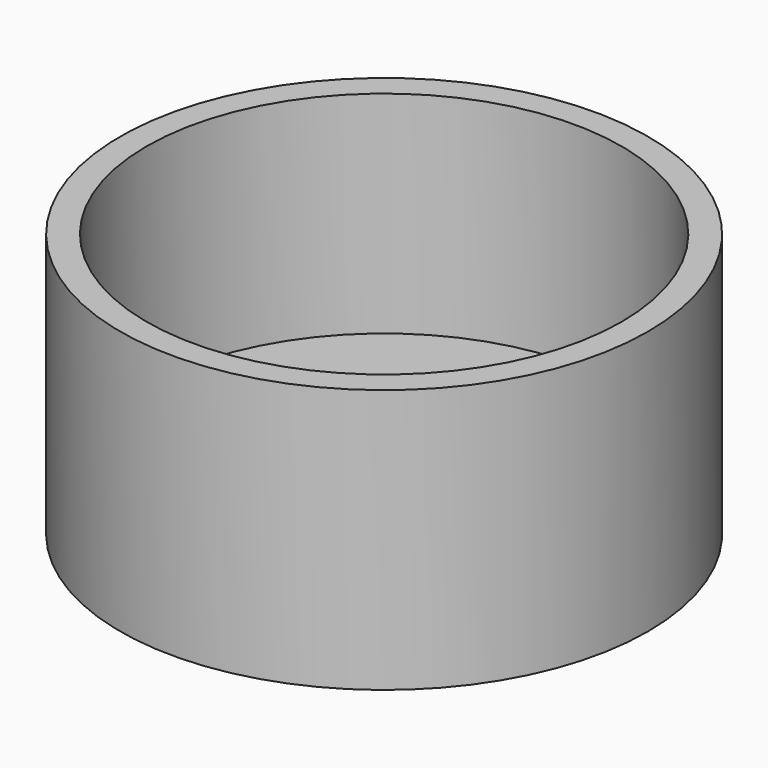
from build123d import *

# Parameters (mm, degrees)
F0_R     = 12.7
F1_DEPTH = 12.7
F2_R     = 11.43
F3_DEPTH = 10.16
F4_R     = 4.191
F5_DEPTH = 2.54


with BuildPart() as f1:
    # F0 (on Top) → F1 (new body)
    with BuildSketch(Plane.XY):
        Circle(F0_R)
    extrude(amount=F1_DEPTH)

    # F2 (on face) → F3 (cut)
    with BuildSketch(Plane.XY.offset(12.7)):
        Circle(F2_R)
    extrude(amount=-F3_DEPTH, mode=Mode.SUBTRACT)

    # F4 (on face) → F5 (cut, through all)
    with BuildSketch(Plane.XY.offset(2.54)):
        Circle(F4_R)
    extrude(amount=-F5_DEPTH, mode=Mode.SUBTRACT)


solid = f1.part
